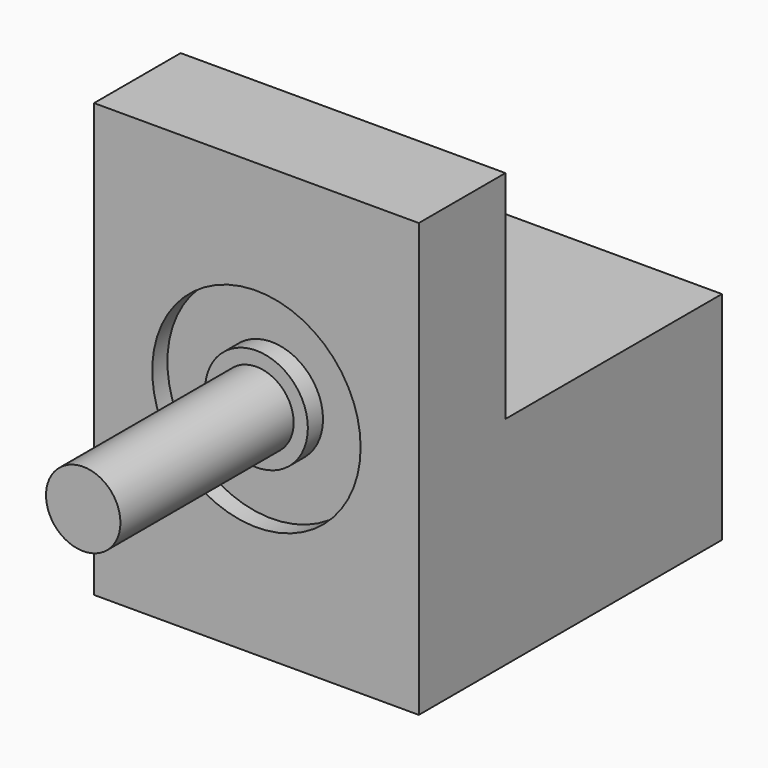
from build123d import *

# Parameters (mm, degrees)
F0_R     = 6.875
F1_DEPTH = 40
F0_W     = 60
F0_H     = 80
F2_DEPTH = 20
F3_R     = 19.25
F3_R_2   = 9.5
F4_DEPTH = 3.5
F5_W     = 60
F5_H     = 40
F6_DEPTH = 50


with BuildPart() as f1:
    # F0 (on Front) → F1 (new body)
    with BuildSketch(Plane.XZ):
        with Locations((0, 40)):
            Circle(F0_R)
    extrude(amount=F1_DEPTH)

    # F0 (on Front) → F2 (join)
    with BuildSketch(Plane.XZ):
        with Locations((0, 40)):
            Rectangle(F0_W, F0_H)
        with Locations((0, 40)):
            Circle(F0_R, mode=Mode.SUBTRACT)
        with Locations((0, 40)):
            Circle(F0_R)
    extrude(amount=-F2_DEPTH)

    # F3 (on face) → F4 (cut)
    with BuildSketch(Plane.XZ):
        with Locations((0, 40)):
            Circle(F3_R)
        with Locations((0, 40)):
            Circle(F3_R_2, mode=Mode.SUBTRACT)
    extrude(amount=-F4_DEPTH, mode=Mode.SUBTRACT)

    # F5 (on face) → F6 (join)
    with BuildSketch(Plane(origin=(0, 20, 0), x_dir=(-1, 0, 0), z_dir=(0, 1, 0))):
        with Locations((0, 20)):
            Rectangle(F5_W, F5_H)
    extrude(amount=F6_DEPTH)


solid = f1.part
